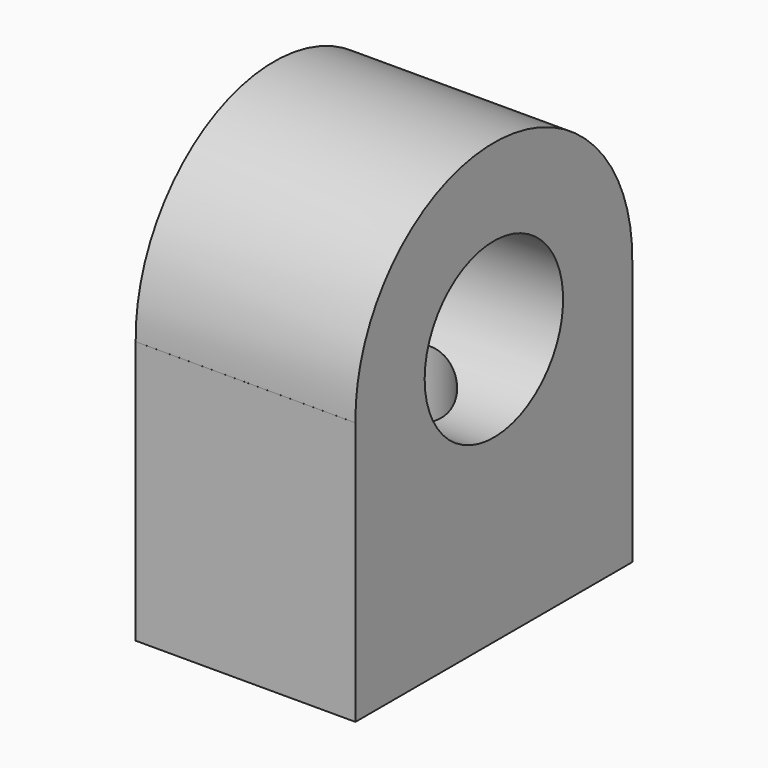
from build123d import *

# Parameters (mm, degrees)
F1_DEPTH = 3.175
F3_D     = 5
F5_D     = 3.3
F5_DEPTH = 6
F5_TIP   = 0.9914200214


with BuildPart() as f1:
    # F0 (on Right) → F1 (new body, symmetric)
    with BuildSketch(Plane.YZ):
        with BuildLine():
            Line((5, -0.0944561325), (4.9991077243, -0.0944561325))
            ThreePointArc((4.9991077243, -0.0944561325), (0, 5), (-4.9991077243, -0.0944561325))
            Line((-4.9991077243, -0.0944561325), (-5, -0.0944561325))
            Line((-5, -0.0944561325), (-5, -7.7014281414))
            Line((-5, -7.7014281414), (5, -7.7014281414))
            Line((5, -7.7014281414), (5, -0.0944561325))
        make_face()
        with BuildLine():
            Line((5, -0.0944561325), (4.9991077243, -0.0944561325))
            ThreePointArc((4.9991077243, -0.0944561325), (0, 5), (-4.9991077243, -0.0944561325))
            Line((-4.9991077243, -0.0944561325), (-5, -0.0944561325))
            Line((-5, -0.0944561325), (-5, -7.7014281414))
            Line((-5, -7.7014281414), (5, -7.7014281414))
            Line((5, -7.7014281414), (5, -0.0944561325))
        make_face()
    extrude(amount=F1_DEPTH, both=True)

    # F3 (through all)
    with Locations(Plane.YZ.offset(3.175)):
        with Locations((0, 0)):
            Hole(F3_D / 2)

    # F5
    with Locations(Plane(origin=(0, 0, -7.7014281414), x_dir=(1, 0, 0), z_dir=(0, 0, -1))):
        with Locations((0, 0)):
            Hole(F5_D / 2, depth=F5_DEPTH)
            with Locations((0, 0, -(F5_DEPTH + F5_TIP / 2))):  # 118° drill point
                Cone(0, F5_D / 2, F5_TIP, mode=Mode.SUBTRACT)


solid = f1.part
